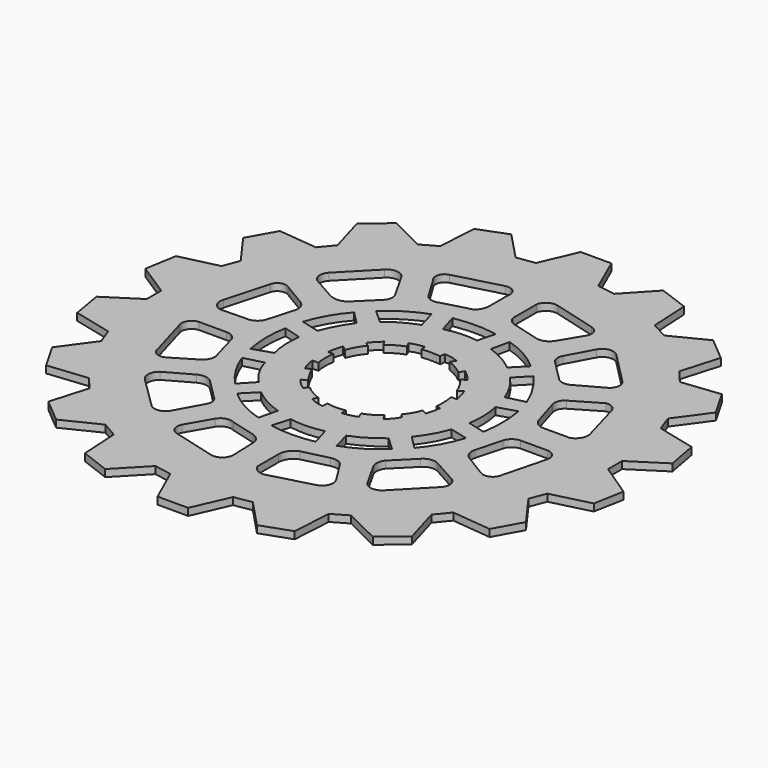
from build123d import *

# Parameters (mm, degrees)
F1_DEPTH = 1


with BuildPart() as f1:
    # F0 (on Top) → F1 (new body)
    with BuildSketch(Plane.XY):
        Polygon((-14.850841, 28.542068), (-17.03123, 27.30271), (-21.984052, 29.792368), (-25.276585, 26.990138), (-23.745144, 21.700053), (-25.279688, 19.826157), (-30.747004, 20.388015), (-32.87801, 16.617231), (-29.687809, 12.206314), (-30.552147, 9.93546), (-35.904221, 8.670614), (-36.657665, 4.263647), (-32.063226, 1.28252), (-32.063226, -1.254786), (-36.69199, -4.238537), (-35.957135, -8.519049), (-30.574346, -9.841782), (-29.729268, -12.119822), (-32.999717, -16.608354), (-30.849295, -20.346642), (-25.319535, -19.77713), (-23.757976, -21.614259), (-25.296973, -26.895531), (-21.984052, -29.675541), (-17.040579, -27.250148), (-14.870084, -28.493742), (-14.559024, -33.916639), (-10.498133, -35.462305), (-6.658533, -31.475734), (-4.233522, -31.916648), (-1.973853, -36.968756), (2.306658, -36.968756), (4.529585, -31.916648), (6.972967, -31.494111), (10.720711, -35.462309), (14.835881, -34.010977), (15.17105, -28.48421), (17.316006, -27.25034), (22.312997, -29.712094), (25.583088, -26.9564), (24.039898, -21.628724), (25.586577, -19.744903), (31.113937, -20.312931), (33.196729, -16.558573), (29.961692, -12.085664), (30.811351, -9.853377), (36.233723, -8.493922), (37.017532, -4.294082), (32.377049, -1.182855), (32.377049, 1.272343), (37.017532, 4.263647), (36.213838, 8.603849), (30.8387, 9.93546), (30.011993, 12.236465), (33.196729, 16.617231), (31.01973, 20.401718), (25.61857, 19.795464), (24.011083, 21.742823), (25.554271, 27.033756), (22.30275, 29.763201), (17.422359, 27.30271), (15.121522, 28.542068), (14.824785, 34.024093), (10.700147, 35.546247), (6.996333, 31.570077), (4.495977, 31.947762), (2.271838, 37.020274), (-2.013827, 37.020274), (-4.214359, 31.947762), (-6.753234, 31.570077), (-10.535319, 35.546247), (-14.520362, 34.024093), align=None)
        with BuildLine():
            ThreePointArc((-8.58643, -18.6869), (-7.65144, -17.951402), (-6.46774, -18.069806))
            Line((-6.46774, -18.069806), (-3.032582, -18.974878))
            ThreePointArc((-3.032582, -18.974878), (-2.195743, -19.486354), (-1.777824, -20.373626))
            Line((-1.777824, -20.373626), (-1.633835, -24.199609))
            ThreePointArc((-1.633835, -24.199609), (-2.284616, -25.377539), (-3.608537, -25.618926))
            Line((-3.608537, -25.618926), (-9.65606, -23.993911))
            ThreePointArc((-9.65606, -23.993911), (-10.557524, -23.211467), (-10.499422, -22.019209))
            Line((-10.499422, -22.019209), (-8.58643, -18.6869))
        make_face(mode=Mode.SUBTRACT)
        with BuildLine():
            ThreePointArc((-25.480939, -3.693582), (-25.275868, -2.49051), (-24.20561, -1.904009))
            Line((-24.20561, -1.904009), (-20.359056, -1.904009))
            ThreePointArc((-20.359056, -1.904009), (-19.471629, -2.177202), (-18.891487, -2.902183))
            Line((-18.891487, -2.902183), (-17.870961, -6.569163))
            ThreePointArc((-17.870961, -6.569163), (-17.778533, -7.785869), (-18.528249, -8.748596))
            Line((-18.528249, -8.748596), (-21.728208, -10.668571))
            ThreePointArc((-21.728208, -10.668571), (-22.732148, -10.835064), (-23.578996, -10.270738))
            Line((-23.578996, -10.270738), (-25.480939, -3.693582))
        make_face(mode=Mode.SUBTRACT)
        with BuildLine():
            ThreePointArc((-16.642153, -11.781035), (-15.586496, -11.569235), (-14.605847, -12.013757))
            Line((-14.605847, -12.013757), (-11.871377, -14.748226))
            ThreePointArc((-11.871377, -14.748226), (-11.345378, -15.560064), (-11.483461, -16.517503))
            Line((-11.483461, -16.517503), (-13.507219, -20.201782))
            ThreePointArc((-13.507219, -20.201782), (-14.6161, -20.981318), (-15.911512, -20.582316))
            Line((-15.911512, -20.582316), (-20.339563, -16.223455))
            ThreePointArc((-20.339563, -16.223455), (-20.824866, -14.964387), (-20.198347, -13.769295))
            Line((-20.198347, -13.769295), (-16.642153, -11.781035))
        make_face(mode=Mode.SUBTRACT)
        with BuildLine():
            ThreePointArc((-5.029947, -15.517725), (-7.900293, -14.333178), (-10.411616, -12.506899))
            Line((-10.411616, -12.506899), (-8.54985, -10.645133))
            ThreePointArc((-8.54985, -10.645133), (-6.577072, -11.996113), (-4.37542, -12.928707))
            Line((-4.37542, -12.928707), (-5.029947, -15.517725))
        make_face(mode=Mode.SUBTRACT)
        with BuildLine():
            Line((-15.255118, -5.598001), (-12.607919, -4.914384))
            ThreePointArc((-12.607919, -4.914384), (-11.676371, -7.071534), (-10.237075, -8.928818))
            Line((-10.237075, -8.928818), (-12.040662, -10.83422))
            ThreePointArc((-12.040662, -10.83422), (-13.917712, -8.381751), (-15.255118, -5.598001))
        make_face(mode=Mode.SUBTRACT)
        with BuildLine():
            ThreePointArc((-15.865821, -3.365762), (-16.197314, -0.266735), (-15.927924, 2.838307))
            Line((-15.927924, 2.838307), (-13.458021, 2.122231))
            ThreePointArc((-13.458021, 2.122231), (-13.569178, -0.189062), (-13.216802, -2.476039))
            Line((-13.216802, -2.476039), (-15.865821, -3.365762))
        make_face(mode=Mode.SUBTRACT)
        with BuildLine():
            ThreePointArc((-1.27915, -9.029718), (-2.270954, -8.812566), (-3.212712, -8.433194))
            Line((-3.212712, -8.433194), (-2.863025, -7.754391))
            ThreePointArc((-2.863025, -7.754391), (-4.063972, -7.203669), (-5.125704, -6.417353))
            Line((-5.125704, -6.417353), (-5.600734, -7.009307))
            ThreePointArc((-5.600734, -7.009307), (-6.390176, -6.395831), (-7.043977, -5.639448))
            Line((-7.043977, -5.639448), (-6.339323, -5.203734))
            ThreePointArc((-6.339323, -5.203734), (-7.045222, -4.079062), (-7.655791, -2.899916))
            Line((-7.655791, -2.899916), (-8.315989, -3.291119))
            ThreePointArc((-8.315989, -3.291119), (-8.701343, -2.319382), (-8.854148, -1.285254))
            Line((-8.854148, -1.285254), (-8.026047, -1.295471))
            ThreePointArc((-8.026047, -1.295471), (-8.152715, 0.020997), (-8.026047, 1.337465))
            Line((-8.026047, 1.337465), (-8.805224, 1.332154))
            ThreePointArc((-8.805224, 1.332154), (-8.623681, 2.374566), (-8.315989, 3.386942))
            Line((-8.315989, 3.386942), (-7.635221, 2.90077))
            ThreePointArc((-7.635221, 2.90077), (-7.088319, 4.116298), (-6.318753, 5.204589))
            Line((-6.318753, 5.204589), (-6.897207, 5.612963))
            ThreePointArc((-6.897207, 5.612963), (-6.248217, 6.392577), (-5.502887, 7.080668))
            Line((-5.502887, 7.080668), (-5.146274, 6.438777))
            ThreePointArc((-5.146274, 6.438777), (-4.068323, 7.179944), (-2.883595, 7.734675))
            Line((-2.883595, 7.734675), (-3.227942, 8.450527))
            ThreePointArc((-3.227942, 8.450527), (-2.257043, 8.759794), (-1.24654, 8.890839))
            Line((-1.24654, 8.890839), (-1.238011, 8.207781))
            ThreePointArc((-1.238011, 8.207781), (0.078457, 8.288336), (1.394924, 8.207781))
            Line((1.394924, 8.207781), (1.468716, 8.9153))
            ThreePointArc((1.468716, 8.9153), (2.481547, 8.794727), (3.450118, 8.474989))
            Line((3.450118, 8.474989), (3.040509, 7.796385))
            ThreePointArc((3.040509, 7.796385), (4.241169, 7.24054), (5.323758, 6.479917))
            Line((5.323758, 6.479917), (5.735154, 7.15872))
            ThreePointArc((5.735154, 7.15872), (6.527307, 6.481904), (7.23675, 5.718834))
            Line((7.23675, 5.718834), (6.578516, 5.266298))
            ThreePointArc((6.578516, 5.266298), (7.33286, 4.174932), (7.915554, 2.98305))
            Line((7.915554, 2.98305), (8.611551, 3.386942))
            ThreePointArc((8.611551, 3.386942), (8.956459, 2.4143), (9.174171, 1.405539))
            Line((9.174171, 1.405539), (8.368091, 1.399174))
            ThreePointArc((8.368091, 1.399174), (8.515666, 0.065412), (8.450369, -1.274901))
            Line((8.450369, -1.274901), (9.076324, -1.35864))
            ThreePointArc((9.076324, -1.35864), (8.903184, -2.3753), (8.611551, -3.364504))
            Line((8.611551, -3.364504), (7.915554, -2.982195))
            ThreePointArc((7.915554, -2.982195), (7.401421, -4.137565), (6.660796, -5.162594))
            Line((6.660796, -5.162594), (7.168307, -5.614986))
            ThreePointArc((7.168307, -5.614986), (6.594294, -6.504462), (5.82291, -7.229463))
            Line((5.82291, -7.229463), (5.344328, -6.479062))
            ThreePointArc((5.344328, -6.479062), (4.28939, -7.232963), (3.102219, -7.754391))
            Line((3.102219, -7.754391), (3.425657, -8.525936))
            ThreePointArc((3.425657, -8.525936), (2.429263, -8.848443), (1.395331, -9.015171))
            Line((1.395331, -9.015171), (1.353785, -8.206926))
            ThreePointArc((1.353785, -8.206926), (0.066933, -8.351549), (-1.217441, -8.186356))
            Line((-1.217441, -8.186356), (-1.27915, -9.029718))
        make_face(mode=Mode.SUBTRACT)
        with BuildLine():
            ThreePointArc((2.082, -20.861316), (2.462777, -19.664678), (3.465066, -18.908139))
            Line((3.465066, -18.908139), (7.072238, -18.035436))
            ThreePointArc((7.072238, -18.035436), (7.938763, -18.031685), (8.714544, -18.417748))
            Line((8.714544, -18.417748), (10.779941, -21.704929))
            ThreePointArc((10.779941, -21.704929), (10.909063, -23.08159), (9.878147, -24.003047))
            Line((9.878147, -24.003047), (4.060127, -25.573913))
            ThreePointArc((4.060127, -25.573913), (2.864767, -25.439962), (2.082, -24.526669))
            Line((2.082, -24.526669), (2.082, -20.861316))
        make_face(mode=Mode.SUBTRACT)
        with BuildLine():
            Line((-2.760919, -16.084982), (-2.048212, -13.612323))
            ThreePointArc((-2.048212, -13.612323), (0.307251, -13.777898), (2.64984, -13.481418))
            Line((2.64984, -13.481418), (3.420727, -16.070437))
            ThreePointArc((3.420727, -16.070437), (0.3306, -16.373425), (-2.760919, -16.084982))
        make_face(mode=Mode.SUBTRACT)
        with BuildLine():
            Line((5.791571, -15.38682), (5.107953, -12.870526))
            ThreePointArc((5.107953, -12.870526), (7.214713, -11.828793), (9.122387, -10.456048))
            Line((9.122387, -10.456048), (10.984153, -12.186909))
            ThreePointArc((10.984153, -12.186909), (8.563535, -14.071934), (5.791571, -15.38682))
        make_face(mode=Mode.SUBTRACT)
        with BuildLine():
            ThreePointArc((12.001725, -16.759612), (11.774923, -15.748524), (12.147175, -14.781485))
            Line((12.147175, -14.781485), (14.852555, -12.076106))
            ThreePointArc((14.852555, -12.076106), (15.867979, -11.525958), (17.005222, -11.727025))
            Line((17.005222, -11.727025), (20.379676, -13.617882))
            ThreePointArc((20.379676, -13.617882), (21.166699, -14.647684), (20.786935, -15.886908))
            Line((20.786935, -15.886908), (16.39433, -20.395875))
            ThreePointArc((16.39433, -20.395875), (15.18228, -20.881319), (14.008942, -20.308604))
            Line((14.008942, -20.308604), (12.001725, -16.759612))
        make_face(mode=Mode.SUBTRACT)
        with BuildLine():
            ThreePointArc((15.66766, -5.147105), (14.474463, -7.956348), (12.744105, -10.470593))
            Line((12.744105, -10.470593), (10.867794, -8.608826))
            ThreePointArc((10.867794, -8.608826), (12.191089, -6.659721), (13.180457, -4.521667))
            Line((13.180457, -4.521667), (15.66766, -5.147105))
        make_face(mode=Mode.SUBTRACT)
        with BuildLine():
            ThreePointArc((24.45229, -1.86548), (25.485909, -2.355291), (25.761344, -3.465435))
            Line((25.761344, -3.465435), (24.103208, -9.894348))
            ThreePointArc((24.103208, -9.894348), (23.270904, -10.692344), (22.125082, -10.56342))
            Line((22.125082, -10.56342), (18.66336, -8.439843))
            ThreePointArc((18.66336, -8.439843), (18.195593, -7.629819), (18.197918, -6.694437))
            Line((18.197918, -6.694437), (19.186981, -3.058174))
            ThreePointArc((19.186981, -3.058174), (19.746509, -2.212208), (20.699667, -1.86548))
            Line((20.699667, -1.86548), (24.45229, -1.86548))
        make_face(mode=Mode.SUBTRACT)
        with BuildLine():
            ThreePointArc((-23.72781, 9.961764), (-22.986294, 10.787397), (-21.880509, 10.693835))
            Line((-21.880509, 10.693835), (-18.535146, 8.686618))
            ThreePointArc((-18.535146, 8.686618), (-17.789917, 7.737932), (-17.866075, 6.53395))
            Line((-17.866075, 6.53395), (-18.826049, 3.159498))
            ThreePointArc((-18.826049, 3.159498), (-19.36601, 2.325641), (-20.280553, 1.937714))
            Line((-20.280553, 1.937714), (-24.305306, 1.847174))
            ThreePointArc((-24.305306, 1.847174), (-25.306921, 2.609213), (-25.416076, 3.863015))
            Line((-25.416076, 3.863015), (-23.72781, 9.961764))
        make_face(mode=Mode.SUBTRACT)
        with BuildLine():
            ThreePointArc((-15.39302, 5.200841), (-14.180721, 7.977933), (-12.404642, 10.433021))
            Line((-12.404642, 10.433021), (-10.623944, 8.631294))
            ThreePointArc((-10.623944, 8.631294), (-11.867656, 6.662563), (-12.820651, 4.537823))
            Line((-12.820651, 4.537823), (-15.39302, 5.200841))
        make_face(mode=Mode.SUBTRACT)
        with BuildLine():
            ThreePointArc((-16.133504, 20.43188), (-14.912008, 20.921957), (-13.726836, 20.349599))
            Line((-13.726836, 20.349599), (-11.546437, 16.544186))
            ThreePointArc((-11.546437, 16.544186), (-11.345282, 15.599828), (-11.772704, 14.734042))
            Line((-11.772704, 14.734042), (-14.570198, 11.977687))
            ThreePointArc((-14.570198, 11.977687), (-15.744424, 11.619541), (-16.935727, 11.915979))
            Line((-16.935727, 11.915979), (-20.288605, 13.8084))
            ThreePointArc((-20.288605, 13.8084), (-20.843244, 14.902322), (-20.412024, 16.05051))
            Line((-20.412024, 16.05051), (-16.133504, 20.43188))
        make_face(mode=Mode.SUBTRACT)
        with BuildLine():
            ThreePointArc((-10.764259, 12.202522), (-8.307462, 14.036473), (-5.549693, 15.375854))
            Line((-5.549693, 15.375854), (-4.807147, 12.725484))
            ThreePointArc((-4.807147, 12.725484), (-6.917162, 11.76178), (-8.821125, 10.43671))
            Line((-8.821125, 10.43671), (-10.764259, 12.202522))
        make_face(mode=Mode.SUBTRACT)
        with BuildLine():
            ThreePointArc((-3.196872, 16.093217), (-0.165858, 16.358716), (2.865058, 16.092105))
            Line((2.865058, 16.092105), (2.223738, 13.627732))
            ThreePointArc((2.223738, 13.627732), (-0.092543, 13.735815), (-2.385129, 13.388127))
            Line((-2.385129, 13.388127), (-3.196872, 16.093217))
        make_face(mode=Mode.SUBTRACT)
        with BuildLine():
            ThreePointArc((-3.410291, 25.595307), (-2.136256, 25.246377), (-1.810336, 23.966262))
            Line((-1.810336, 23.966262), (-1.810336, 20.79544))
            ThreePointArc((-1.810336, 20.79544), (-2.024622, 19.858667), (-2.624858, 19.108215))
            Line((-2.624858, 19.108215), (-6.639292, 18.03188))
            ThreePointArc((-6.639292, 18.03188), (-7.711451, 17.952572), (-8.559239, 18.613683))
            Line((-8.559239, 18.613683), (-10.479186, 21.813594))
            ThreePointArc((-10.479186, 21.813594), (-10.753737, 23.017841), (-9.868294, 23.878992))
            Line((-9.868294, 23.878992), (-3.410291, 25.595307))
        make_face(mode=Mode.SUBTRACT)
        with BuildLine():
            ThreePointArc((16.205829, 3.376295), (16.500751, 0.2874), (16.249465, -2.805352))
            Line((16.249465, -2.805352), (13.747715, -2.136279))
            ThreePointArc((13.747715, -2.136279), (13.912223, 0.23366), (13.616811, 2.590863))
            Line((13.616811, 2.590863), (16.205829, 3.376295))
        make_face(mode=Mode.SUBTRACT)
        with BuildLine():
            ThreePointArc((12.29321, 10.866997), (14.152831, 8.411589), (15.536756, 5.659868))
            Line((15.536756, 5.659868), (12.933193, 5.034431))
            ThreePointArc((12.933193, 5.034431), (11.914684, 7.153404), (10.504168, 9.034321))
            Line((10.504168, 9.034321), (12.29321, 10.866997))
        make_face(mode=Mode.SUBTRACT)
        with BuildLine():
            ThreePointArc((5.224315, 15.565048), (8.078729, 14.355461), (10.591439, 12.539677))
            Line((10.591439, 12.539677), (8.773308, 10.692456))
            ThreePointArc((8.773308, 10.692456), (6.812435, 12.035484), (4.642514, 13.005119))
            Line((4.642514, 13.005119), (5.224315, 15.565048))
        make_face(mode=Mode.SUBTRACT)
        with BuildLine():
            ThreePointArc((13.715447, 20.137159), (14.825145, 20.93446), (16.137037, 20.552289))
            Line((16.137037, 20.552289), (20.634277, 15.98586))
            ThreePointArc((20.634277, 15.98586), (21.024763, 14.855684), (20.392118, 13.841023))
            Line((20.392118, 13.841023), (16.794328, 11.834561))
            ThreePointArc((16.794328, 11.834561), (15.867908, 11.640551), (14.995431, 12.007532))
            Line((14.995431, 12.007532), (12.020333, 14.98263))
            ThreePointArc((12.020333, 14.98263), (11.655464, 15.762262), (11.812768, 16.608555))
            Line((11.812768, 16.608555), (13.715447, 20.137159))
        make_face(mode=Mode.SUBTRACT)
        with BuildLine():
            ThreePointArc((18.074309, 6.99138), (18.108466, 7.910501), (18.697005, 8.617305))
            Line((18.697005, 8.617305), (22.467768, 10.831331))
            ThreePointArc((22.467768, 10.831331), (23.433508, 10.648146), (24.024505, 9.862695))
            Line((24.024505, 9.862695), (25.650429, 4.120065))
            ThreePointArc((25.650429, 4.120065), (25.501595, 2.806759), (24.47423, 1.975227))
            Line((24.47423, 1.975227), (20.703467, 1.975227))
            ThreePointArc((20.703467, 1.975227), (19.773697, 2.352117), (19.215917, 3.186023))
            Line((19.215917, 3.186023), (18.074309, 6.99138))
        make_face(mode=Mode.SUBTRACT)
        with BuildLine():
            ThreePointArc((1.953434, 24.426833), (2.720367, 25.412948), (3.959895, 25.568441))
            Line((3.959895, 25.568441), (10.013873, 23.90792))
            ThreePointArc((10.013873, 23.90792), (10.90074, 23.140138), (10.809539, 21.970648))
            Line((10.809539, 21.970648), (8.941454, 18.891769))
            ThreePointArc((8.941454, 18.891769), (8.016344, 18.125017), (6.815173, 18.094571))
            Line((6.815173, 18.094571), (3.025853, 19.133927))
            ThreePointArc((3.025853, 19.133927), (2.32892, 19.553748), (1.953434, 20.275533))
            Line((1.953434, 20.275533), (1.953434, 24.426833))
        make_face(mode=Mode.SUBTRACT)
    extrude(amount=F1_DEPTH)


solid = f1.part
